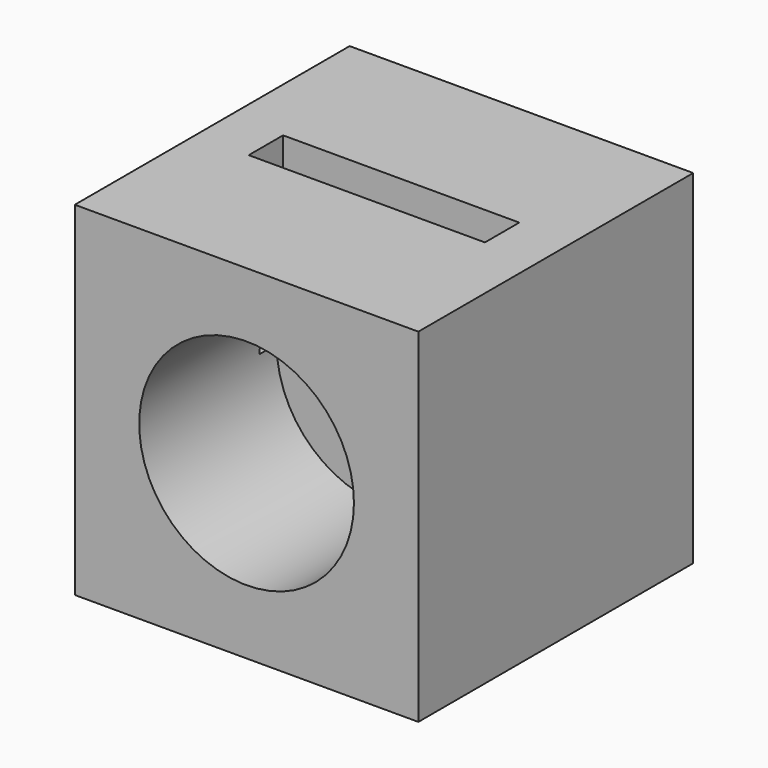
from build123d import *

# Parameters (mm, degrees)
F0_W     = 101.6
F0_H     = 101.6
F1_DEPTH = 50.8
F2_W     = 69.85
F2_H     = 12.7
F3_DEPTH = 50.8
F4_R     = 31.75
F5_DEPTH = 50.8


with BuildPart() as f1:
    # F0 (on Front) → F1 (new body, symmetric)
    with BuildSketch(Plane.XZ):
        Rectangle(F0_W, F0_H)
    extrude(amount=F1_DEPTH, both=True)

    # F2 (on face) → F3 (cut)
    with BuildSketch(Plane.XY.offset(50.8)):
        Rectangle(F2_W, F2_H)
    extrude(amount=-F3_DEPTH, mode=Mode.SUBTRACT)

    # F4 (on face) → F5 (cut)
    with BuildSketch(Plane.XZ.offset(50.8)):
        Circle(F4_R)
    extrude(amount=-F5_DEPTH, mode=Mode.SUBTRACT)


solid = f1.part
